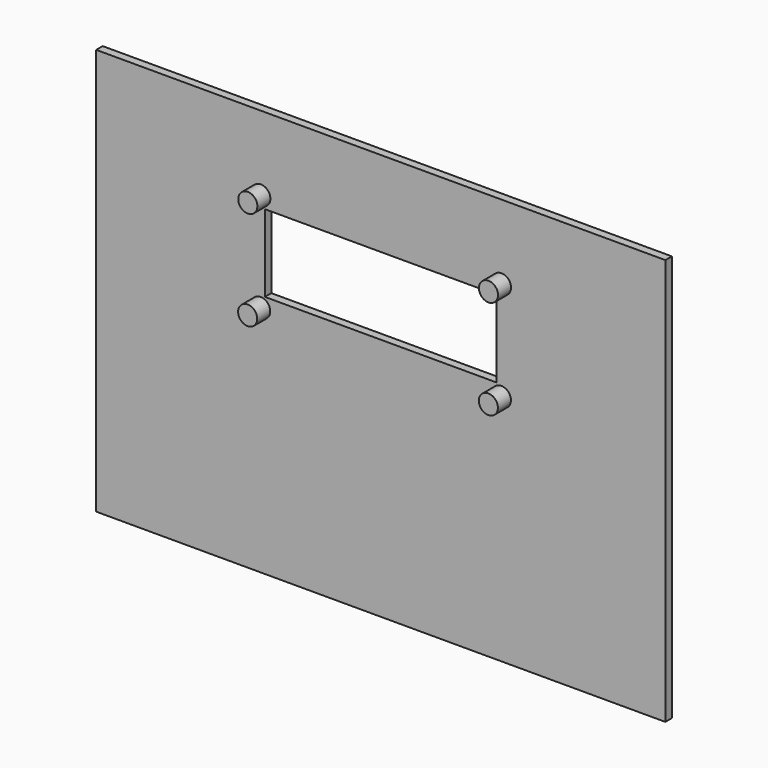
from build123d import *

# Parameters (mm, degrees)
F0_W     = 177.8
F0_H     = 127
F0_R     = 2.9845
F0_W_2   = 72.39
F0_H_2   = 24.13
F1_DEPTH = 2.54
F2_DEPTH = 7.62


with BuildPart() as f1:
    # F0 (on Front) → F1 (new body)
    with BuildSketch(Plane.XZ):
        with Locations((-0.239147, 0)):
            Rectangle(F0_W, F0_H)
        with Locations((-37.742085, 9.271)):
            Circle(F0_R, mode=Mode.SUBTRACT)
        with Locations((-37.704147, 40.259)):
            Circle(F0_R, mode=Mode.SUBTRACT)
        with Locations((37.441972, 9.271)):
            Circle(F0_R, mode=Mode.SUBTRACT)
        with Locations((-0.239147, 24.765)):
            Rectangle(F0_W_2, F0_H_2, mode=Mode.SUBTRACT)
        with Locations((37.479909, 40.259)):
            Circle(F0_R, mode=Mode.SUBTRACT)
    extrude(amount=F1_DEPTH)

    # F0 (on Front) → F2 (join)
    with BuildSketch(Plane.XZ):
        with Locations((-37.704147, 40.259)):
            Circle(F0_R)
        with Locations((37.479909, 40.259)):
            Circle(F0_R)
        with Locations((37.441972, 9.271)):
            Circle(F0_R)
        with Locations((-37.742085, 9.271)):
            Circle(F0_R)
    extrude(amount=F2_DEPTH)


solid = f1.part
